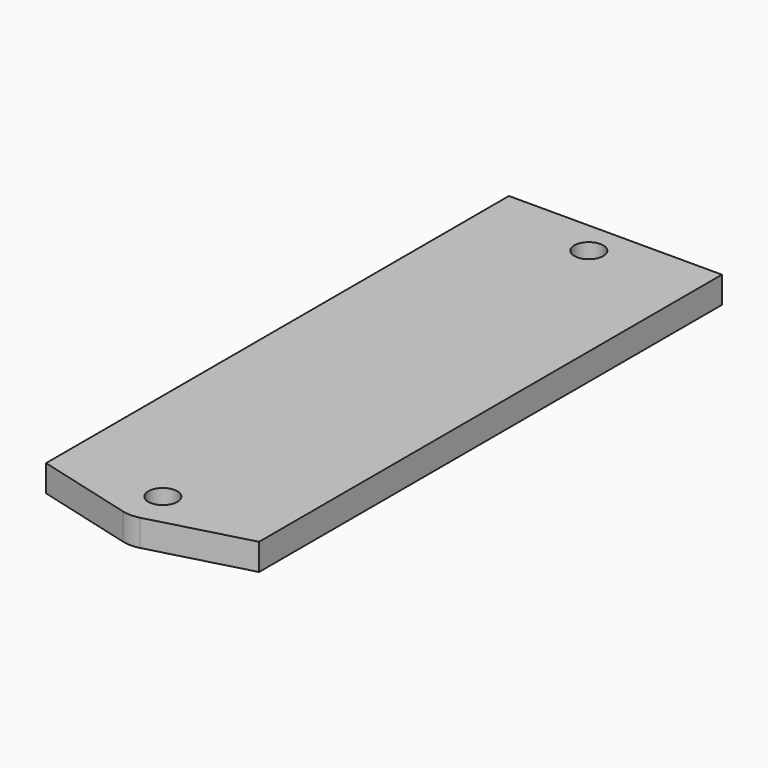
from build123d import *

# Parameters (mm, degrees)
F0_R     = 1.7272
F1_DEPTH = 3.175
F2_R     = 3.96875


with BuildPart() as f1:
    # F0 (on Top) → F1 (new body)
    with BuildSketch(Plane.XY):
        Polygon((-12.7, 3.402955), (0, 0), (12.7, 3.402955), (12.7, 72.399253), (-12.7, 72.399253), align=None)
        with Locations((0, 4.930503)):
            Circle(F0_R, mode=Mode.SUBTRACT)
        with Locations((0, 68.430503)):
            Circle(F0_R, mode=Mode.SUBTRACT)
    extrude(amount=F1_DEPTH)

    # F2
    f2_edges = [f1.edges().sort_by_distance(p)[0] for p in [
        (0, 0, 1.5875),
    ]]
    fillet(f2_edges, radius=F2_R)


solid = f1.part
